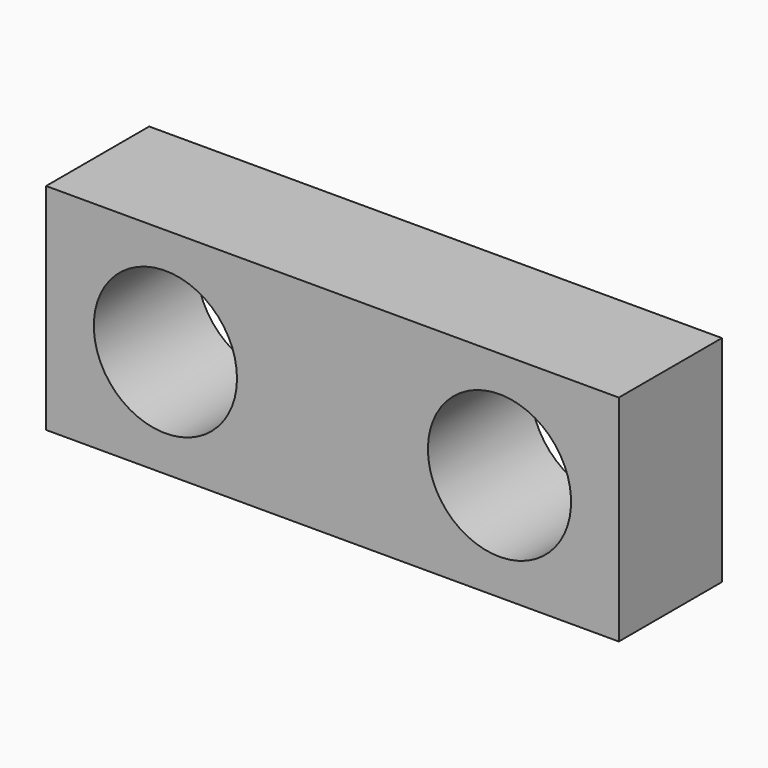
from build123d import *

# Parameters (mm, degrees)
F0_W     = 12
F0_H     = 4.5
F1_DEPTH = 2.7
F2_R     = 1.5
F3_DEPTH = 25


with BuildPart() as f1:
    # F0 (on Front) → F1 (new body)
    with BuildSketch(Plane.XZ):
        Rectangle(F0_W, F0_H)
    extrude(amount=F1_DEPTH)

    # F2 (on face) → F3 (cut)
    with BuildSketch(Plane.XZ.offset(2.7)):
        with Locations((-3.5, 0)):
            Circle(F2_R)
        with BuildLine():
            ThreePointArc((5, 0), (3.5, 1.5), (2, 0))
            ThreePointArc((2, 0), (3.5, -1.5), (5, 0))
        make_face()
    extrude(amount=-F3_DEPTH, mode=Mode.SUBTRACT)


solid = f1.part
